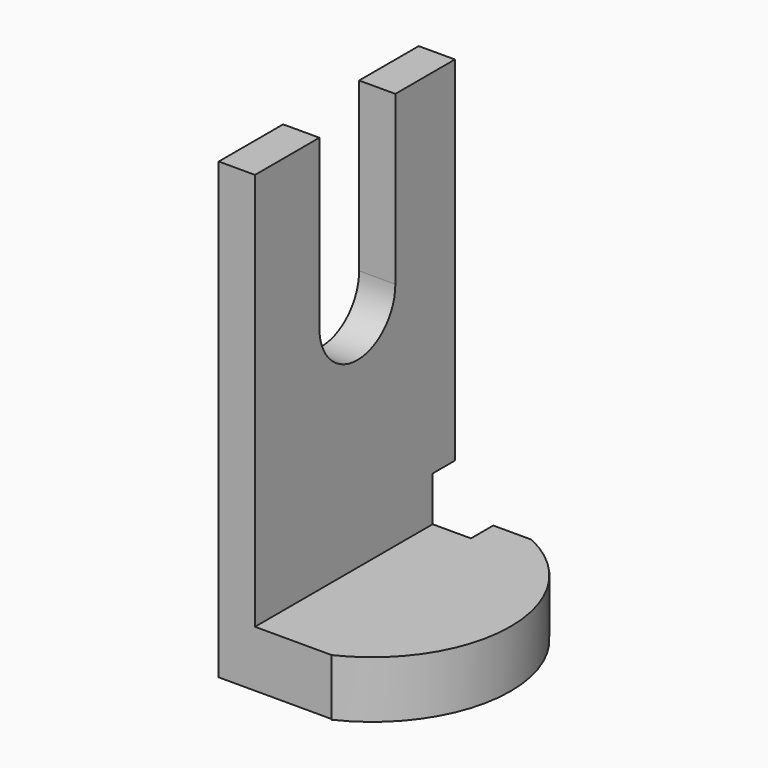
from build123d import *

# Parameters (mm, degrees)
F0_W      = 61.3026209176
F0_H      = 111.3808304071
F1_DEPTH  = 8.89
F2_W      = 61.3026209176
F2_H      = 13.814676553
F3_DEPTH  = 18.796
F5_DEPTH  = 13.97
F6_W      = 23.2926858589
F6_H      = 41.1077216268
F7_DEPTH  = 25.4
F9_DEPTH  = 25.4
F10_W     = 6.8394243717
F10_H     = 10.9558589756
F11_DEPTH = 25.4
F12_W     = 8.89
F12_H     = 6.8394243717
F13_DEPTH = 25.4
F14_W     = 9.398
F14_H     = 6.8394243717
F15_DEPTH = 25.4


with BuildPart() as f1:
    # F0 (on Right) → F1 (new body)
    with BuildSketch(Plane.YZ):
        Rectangle(F0_W, F0_H)
    extrude(amount=F1_DEPTH)

    # F2 (on face) → F3 (join)
    with BuildSketch(Plane.YZ.offset(8.89)):
        with Locations((0, -48.7830769271)):
            Rectangle(F2_W, F2_H)
    extrude(amount=F3_DEPTH)

    # F4 (on face) → F5 (join)
    with BuildSketch(Plane.XY.offset(-41.8757386506)):
        with BuildLine():
            Line((27.686, 30.6513104588), (27.686, -30.6513104588))
            ThreePointArc((27.686, -30.6513104588), (47.0533316353, 0), (27.686, 30.6513104588))
        make_face()
    extrude(amount=-F5_DEPTH)

    # F6 (on face) → F7 (cut)
    with BuildSketch(Plane.YZ.offset(8.89)):
        with Locations((0.7317778654, 35.1365543902)):
            Rectangle(F6_W, F6_H)
        with Locations((0.7317778654, 35.1365543902)):
            Rectangle(F6_W, F6_H)
    extrude(amount=-F7_DEPTH, mode=Mode.SUBTRACT)

    # F8 (on face) → F9 (cut)
    with BuildSketch(Plane.YZ.offset(8.89)):
        with BuildLine():
            Line((12.3781207949, 14.5826935768), (-10.914565064, 14.5826935768))
            ThreePointArc((-10.914565064, 14.5826935768), (0.7317778654, 2.9363506474), (12.3781207949, 14.5826935768))
        make_face()
    extrude(amount=-F9_DEPTH, mode=Mode.SUBTRACT)

    # F10 (on face) → F11 (cut)
    with BuildSketch(Plane.YZ.offset(8.89)):
        with Locations((27.2315982729, -36.3978091627)):
            Rectangle(F10_W, F10_H)
    extrude(amount=-F11_DEPTH, mode=Mode.SUBTRACT)

    # F12 (on face) → F13 (cut)
    with BuildSketch(Plane.XY.offset(-41.8757386506)):
        with Locations((4.445, 27.2315982729)):
            Rectangle(F12_W, F12_H)
    extrude(amount=-F13_DEPTH, mode=Mode.SUBTRACT)

    # F14 (on face) → F15 (cut)
    with BuildSketch(Plane.XY.offset(-41.8757386506)):
        with Locations((13.589, 27.2315982729)):
            Rectangle(F14_W, F14_H)
    extrude(amount=-F15_DEPTH, mode=Mode.SUBTRACT)


solid = f1.part
